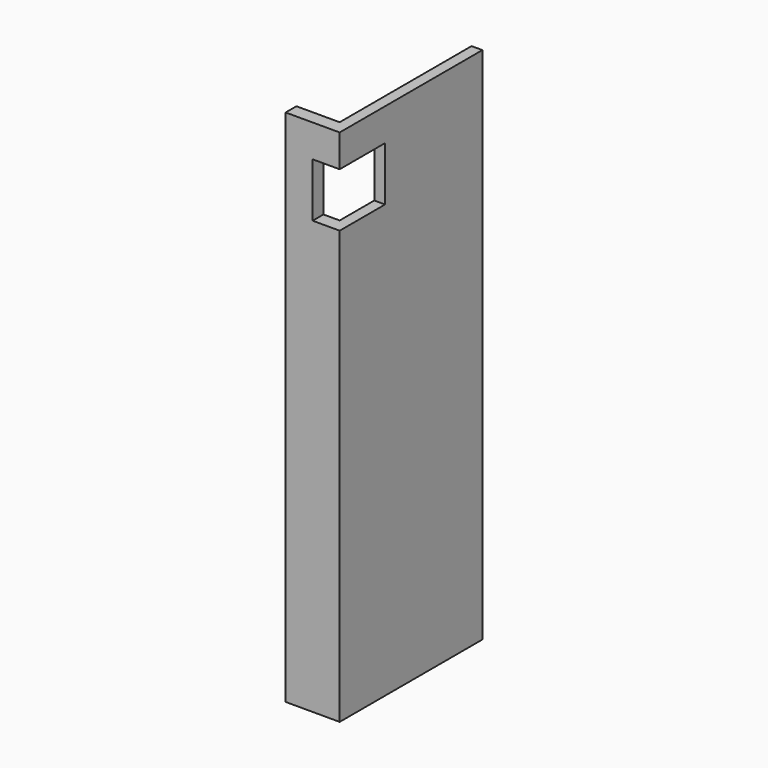
from build123d import *

# Parameters (mm, degrees)
F0_W     = 838.2
F0_H     = 2438.4
F1_DEPTH = 50.8
F2_W     = 63.5
F2_H     = 2438.4
F3_DEPTH = 203.2
F5_W     = 304.8
F5_H     = 254
F6_DEPTH = 127


with BuildPart() as f1:
    # F0 (on Right) → F1 (new body)
    with BuildSketch(Plane.YZ):
        Rectangle(F0_W, F0_H)
    extrude(amount=F1_DEPTH)

    # F2 (on face) → F3 (join)
    with BuildSketch(Plane(origin=(0, 0, 0), x_dir=(0, -1, 0), z_dir=(-1, 0, 0))):
        with Locations((387.35, 0)):
            Rectangle(F2_W, F2_H)
    extrude(amount=F3_DEPTH)

    # F5 (on face) → F6 (cut)
    with BuildSketch(Plane.YZ.offset(50.8)):
        with Locations((-304.8, 939.8)):
            Rectangle(F5_W, F5_H)
    extrude(amount=-F6_DEPTH, mode=Mode.SUBTRACT)


solid = f1.part
